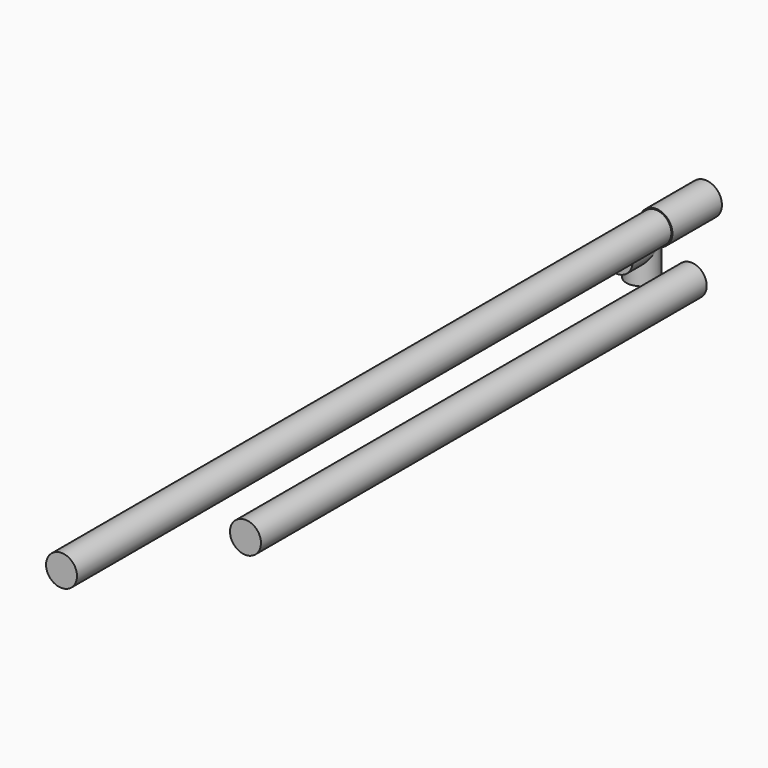
from build123d import *

# Parameters (mm, degrees)
F0_R     = 25.4
F1_DEPTH = 1219.2
F2_R     = 27.1046494799
F3_DEPTH = 101.6
F4_R     = 25.4
F7_R     = 25.4
F8_DEPTH = 914.4


with BuildPart() as f1:
    # F0 (on Front) → F1 (new body)
    with BuildSketch(Plane.XZ):
        Circle(F0_R)
    extrude(amount=F1_DEPTH)


with BuildPart() as f3:
    # F2 (on Front) → F3 (new body)
    with BuildSketch(Plane.XZ):
        Circle(F2_R)
    extrude(amount=-F3_DEPTH)


with BuildPart() as f6:
    # F6: sweep along a path in F5
    with BuildLine(Plane.YZ) as f6_path:
        Line((0, -62.5270009041), (50.8, -62.5270009041))
        Line((50.8, -62.5270009041), (50.8, -113.3270009041))
    # F4 (on Front) → F6 (sweep)
    with BuildSketch(Plane.XZ):
        with Locations((-63.5673701763, -62.5270009041)):
            Circle(F4_R)
    sweep(path=f6_path.line, transition=Transition.RIGHT)


with BuildPart() as f8:
    # F7 (on Front) → F8 (new body)
    with BuildSketch(Plane.XZ):
        with Locations((58.0495595932, -57.2020560503)):
            Circle(F7_R)
    extrude(amount=F8_DEPTH)


solid = Compound([f1.part, f3.part, f6.part, f8.part])
